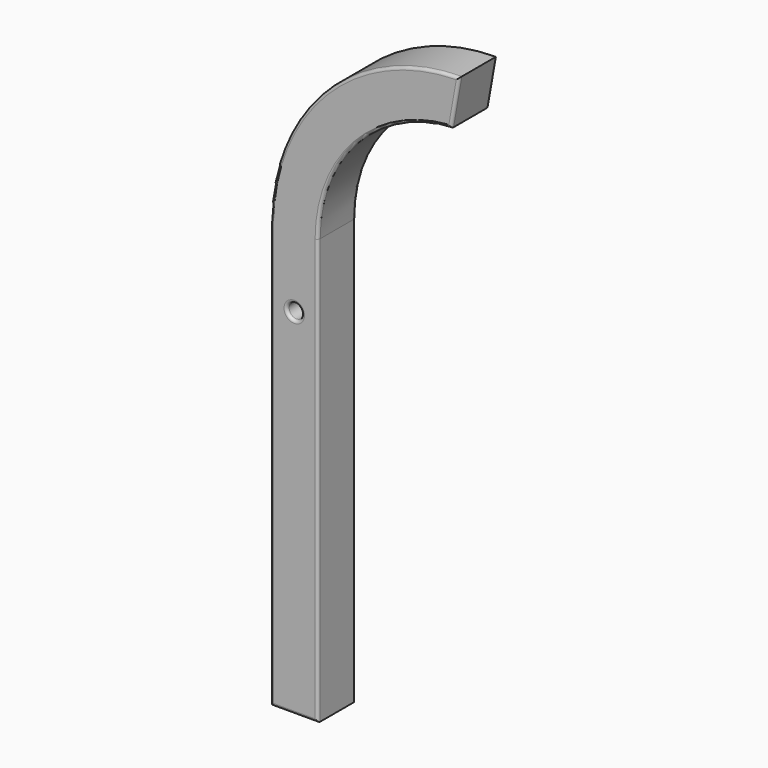
from build123d import *

# Parameters (mm, degrees)
F0_R     = 3.96875
F1_DEPTH = 25.4
F2_R     = 1.524


with BuildPart() as f1:
    # F0 (on Front) → F1 (new body)
    with BuildSketch(Plane.XZ):
        with BuildLine():
            Line((0, 228.6), (0, 0))
            Line((0, 0), (25.4, 0))
            Line((25.4, 0), (25.4, 228.6))
            ThreePointArc((25.4, 228.6), (46.149545, 280.865543), (97.097822, 304.666881))
            Line((97.097822, 304.666881), (101.6, 330.2))
            ThreePointArc((101.6, 330.2), (29.757951, 300.442049), (0, 228.6))
        make_face()
        with Locations((12.7, 190.5)):
            Circle(F0_R, mode=Mode.SUBTRACT)
    extrude(amount=F1_DEPTH)

    # F2
    f2_edges = [f1.edges().sort_by_distance(p)[0] for p in [
        (0, -25.4, 114.3),
        (12.7, -25.4, 0),
        (25.4, -25.4, 114.3),
        (46.149545, -25.4, 280.865543),
        (99.348911, -25.4, 317.433441),
        (29.757951, -25.4, 300.442049),
        (8.73125, -25.4, 190.5),
        (0, 0, 114.3),
        (12.7, 0, 0),
        (25.4, 0, 114.3),
        (46.149545, 0, 280.865543),
        (99.348911, 0, 317.433441),
        (29.757951, 0, 300.442049),
        (8.73125, 0, 190.5),
    ]]
    fillet(f2_edges, radius=F2_R)


solid = f1.part
